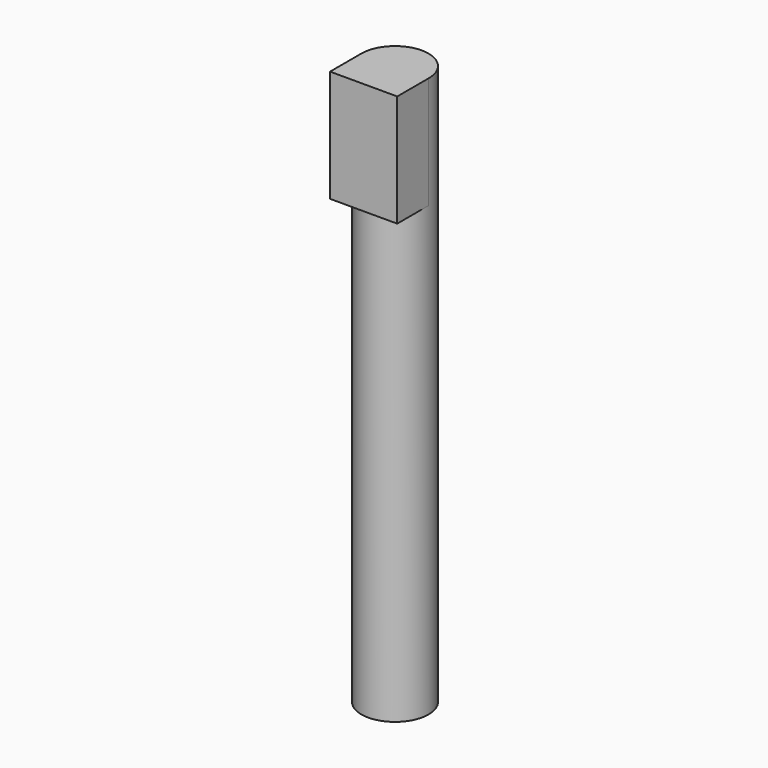
from build123d import *

# Parameters (mm, degrees)
F0_R     = 15.24
F1_DEPTH = 203.2
F4_DEPTH = 50.8


with BuildPart() as f1:
    # F0 (on Top) → F1 (new body)
    with BuildSketch(Plane.XY):
        Circle(F0_R)
    extrude(amount=F1_DEPTH)

    # F3 (on face) → F4 (join)
    with BuildSketch(Plane.XY.offset(203.2)):
        with BuildLine():
            ThreePointArc((-15.24, 0), (0, -15.24), (15.24, 0))
            ThreePointArc((15.24, 0), (0, 15.24), (-15.24, 0))
        make_face()
        with BuildLine():
            Line((-15.24, -17.78), (15.24, -17.78))
            Line((15.24, -17.78), (15.24, 0))
            ThreePointArc((15.24, 0), (0, -15.24), (-15.24, 0))
            Line((-15.24, 0), (-15.24, -17.78))
        make_face()
    extrude(amount=F4_DEPTH)


solid = f1.part
